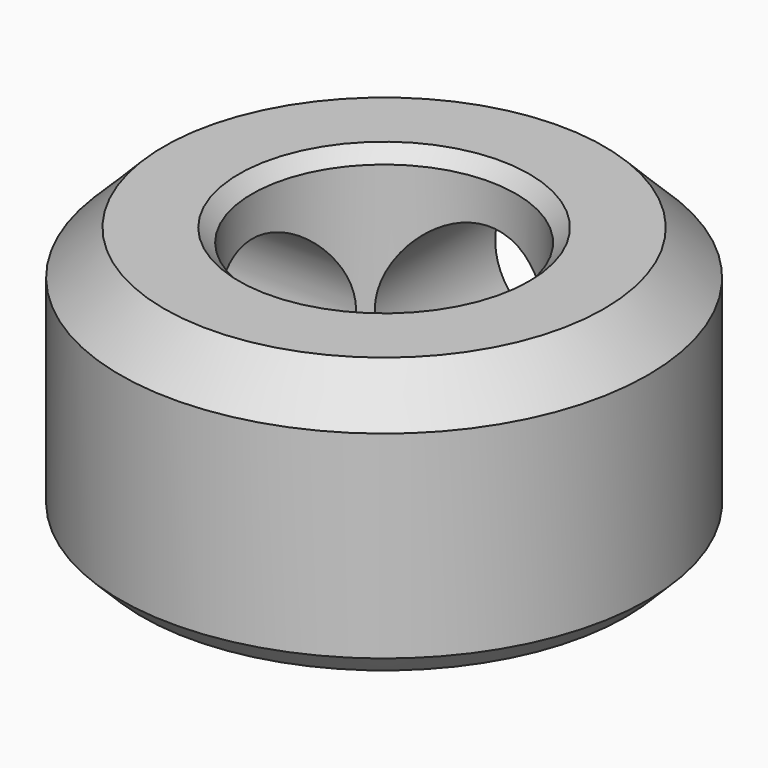
from build123d import *

# Parameters (mm, degrees)
SKETCH_R        = 6
PAD_DEPTH       = 6
SKETCH001_R     = 3
POCKET_DEPTH    = 6.001
CHAMFER_SIZE    = 1
CHAMFER001_SIZE = 0.3
CHAMFER002_SIZE = 0.5
CHAMFER003_SIZE = 0.3
SKETCH002_R     = 2
POCKET001_DEPTH = 6.001
SKETCH003_R     = 2
POCKET002_DEPTH = 6.001


with BuildPart() as part:
    # Sketch → Pad (new body)
    with BuildSketch(Plane.XY):
        Circle(SKETCH_R)
    extrude(amount=PAD_DEPTH)

    # Sketch001 (on Face3 of Pad) → Pocket (cut, through all)
    with BuildSketch(Plane.XY.offset(6)):
        Circle(SKETCH001_R)
    extrude(amount=-POCKET_DEPTH, mode=Mode.SUBTRACT)

    # Chamfer
    chamfer_edges = [part.edges().sort_by_distance(p)[0] for p in [
        (-6, 0, 6),
    ]]
    chamfer(chamfer_edges, length=CHAMFER_SIZE)

    # Chamfer001
    chamfer001_edges = [part.edges().sort_by_distance(p)[0] for p in [
        (-3, 0, 6),
    ]]
    chamfer(chamfer001_edges, length=CHAMFER001_SIZE)

    # Chamfer002
    chamfer002_edges = [part.edges().sort_by_distance(p)[0] for p in [
        (-6, 0, 0),
    ]]
    chamfer(chamfer002_edges, length=CHAMFER002_SIZE)

    # Chamfer003
    chamfer003_edges = [part.edges().sort_by_distance(p)[0] for p in [
        (-3, 0, 0),
    ]]
    chamfer(chamfer003_edges, length=CHAMFER003_SIZE)

    # Sketch002 → Pocket001 (cut, through all)
    with BuildSketch(Plane.YZ):
        with Locations((0, 2.8)):
            Circle(SKETCH002_R)
    extrude(amount=-POCKET001_DEPTH, mode=Mode.SUBTRACT)

    # Sketch003 → Pocket002 (cut, through all)
    with BuildSketch(Plane.XZ):
        with Locations((0, 2.8)):
            Circle(SKETCH003_R)
    extrude(amount=-POCKET002_DEPTH, mode=Mode.SUBTRACT)


solid = part.part
